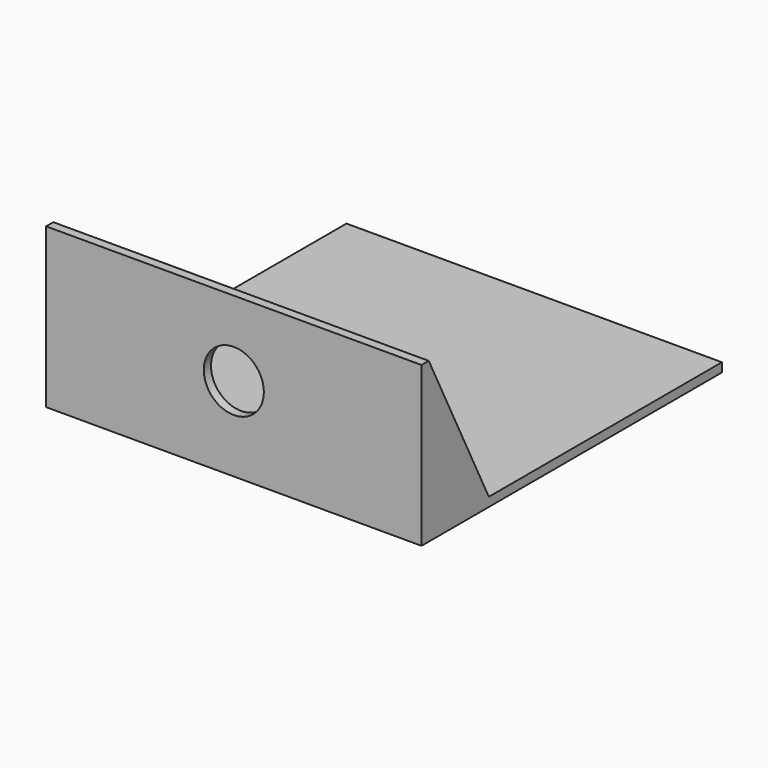
from build123d import *

# Parameters (mm, degrees)
SKETCH_W     = 50
SKETCH_H     = 50
PAD_DEPTH    = 1.2
SKETCH001_W  = 50
SKETCH001_H  = 1.2
PAD001_DEPTH = 20
PAD002_DEPTH = 1.2
PAD003_DEPTH = 1.2
SKETCH004_R  = 4
POCKET_DEPTH = 1.2


with BuildPart() as part:
    # Sketch → Pad (new body)
    with BuildSketch(Plane.XY):
        Rectangle(SKETCH_W, SKETCH_H)
    extrude(amount=PAD_DEPTH)

    # Sketch001 (on Face6 of Pad) → Pad001 (join)
    with BuildSketch(Plane.XY.offset(1.2)):
        with Locations((0, -24.4)):
            Rectangle(SKETCH001_W, SKETCH001_H)
    extrude(amount=PAD001_DEPTH)

    # Sketch002 (on Face7 of Pad001) → Pad002 (join)
    with BuildSketch(Plane(origin=(-25, 0, 0), x_dir=(0, -1, 0), z_dir=(-1, 0, 0))):
        Polygon((23.8, 21.2), (23.8, 1.2), (13.8, 1.2), align=None)
    extrude(amount=-PAD002_DEPTH)

    # Sketch003 (on Face1 of Pad002) → Pad003 (join)
    with BuildSketch(Plane.YZ.offset(25)):
        Polygon((-23.8, 21.2), (-23.8, 1.2), (-13.8, 1.2), align=None)
    extrude(amount=-PAD003_DEPTH)

    # Sketch004 (on Face9 of Pad003) → Pocket (cut)
    with BuildSketch(Plane.XZ.offset(25)):
        with Locations((0, 11.2)):
            Circle(SKETCH004_R)
    extrude(amount=-POCKET_DEPTH, mode=Mode.SUBTRACT)


solid = part.part
